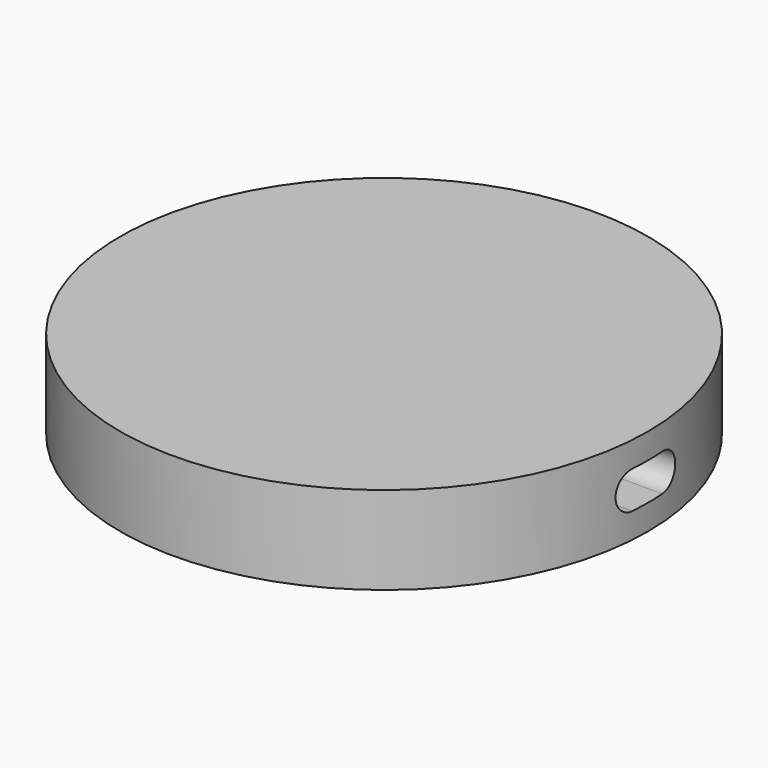
from build123d import *

# Parameters (mm, degrees)
F0_R     = 9.525
F1_DEPTH = 0.79375
F2_R     = 9.525
F2_R_2   = 6.4135
F3_DEPTH = 1.5875
F4_R     = 9.525
F5_DEPTH = 0.79375
F8_DEPTH = 12.7


with BuildPart() as f1:
    # F0 (on Top) → F1 (new body)
    with BuildSketch(Plane.XY):
        Circle(F0_R)
    extrude(amount=F1_DEPTH)

    # F2 (on face) → F3 (join)
    with BuildSketch(Plane.XY.offset(0.79375)):
        Circle(F2_R)
        Circle(F2_R_2, mode=Mode.SUBTRACT)
    extrude(amount=F3_DEPTH)

    # F4 (on face) → F5 (join)
    with BuildSketch(Plane.XY.offset(2.38125)):
        Circle(F4_R)
    extrude(amount=F5_DEPTH)

    # F7 (on offset) → F8 (cut)
    with BuildSketch(Plane.YZ.offset(9.525)):
        with BuildLine():
            Line((0.6731, 2.2606), (-0.6731, 2.2606))
            ThreePointArc((-0.6731, 2.2606), (-1.3462, 1.5875), (-0.6731, 0.9144))
            Line((-0.6731, 0.9144), (0.6731, 0.9144))
            ThreePointArc((0.6731, 0.9144), (1.3462, 1.5875), (0.6731, 2.2606))
        make_face()
    extrude(amount=-F8_DEPTH, mode=Mode.SUBTRACT)


solid = f1.part
